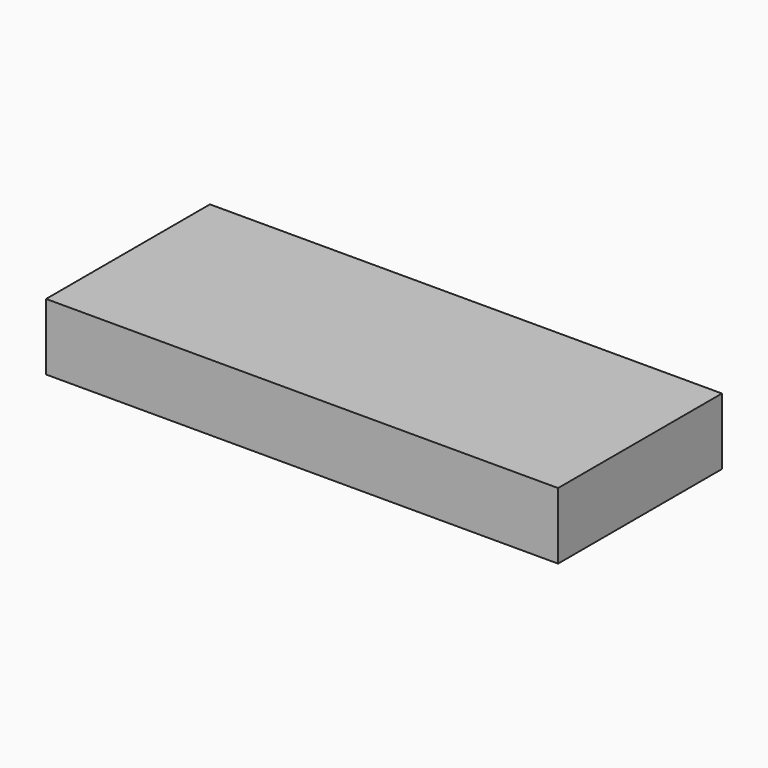
from build123d import *

# Parameters (mm, degrees)
F0_W     = 100
F0_H     = 40
F1_DEPTH = 13
F2_W     = 100
F2_H     = 2.419342
F3_DEPTH = 3


with BuildPart() as f1:
    # F0 (on Top) → F1 (new body)
    with BuildSketch(Plane.XY):
        with Locations((50, 20)):
            Rectangle(F0_W, F0_H)
    extrude(amount=F1_DEPTH)

    # F2 (on face) → F3 (join)
    with BuildSketch(Plane.XZ):
        with Locations((50, 4.180386)):
            Rectangle(F2_W, F2_H)
    extrude(amount=-F3_DEPTH)


solid = f1.part
